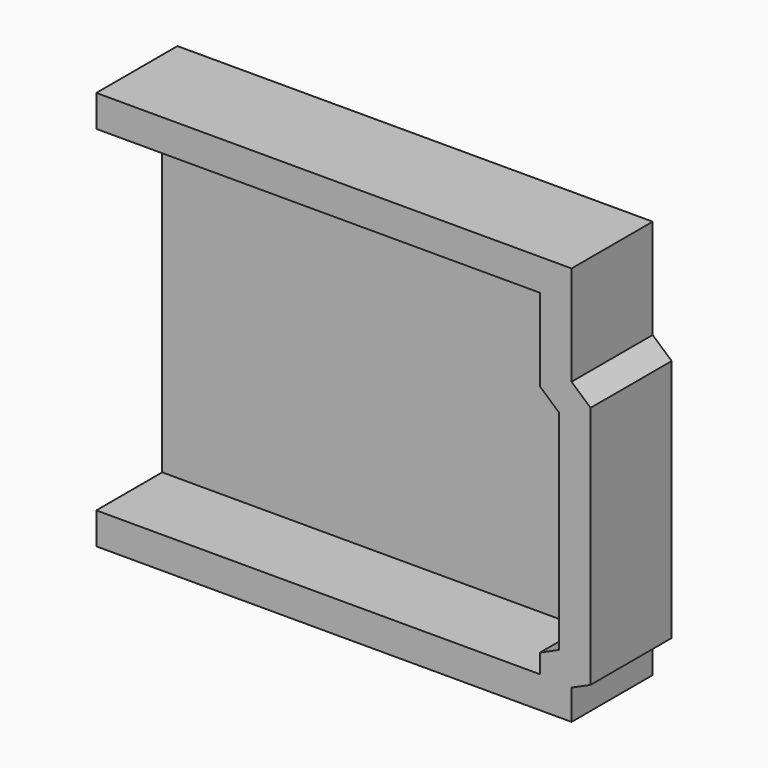
from build123d import *

# Parameters (mm, degrees)
F1_DEPTH = 16
F0_W     = 5
F0_H     = 53
F2_DEPTH = 1.7
F3_DEPTH = 3
F4_DEPTH = 3


with BuildPart() as f1:
    # F0 (on Front) → F1 (new body)
    with BuildSketch(Plane.XZ):
        Polygon((-5, 0), (0, 0), (65, 0), (65, -13), (68, -15.645751), (68, -48.645751), (65, -50), (65, -53), (0, -53), (-5, -53), (-5, -58), (70, -58), (70, -53.228757), (73, -51.874508), (73, -13.38867), (70, -10.742919), (70, 5), (-5, 5), align=None)
    extrude(amount=F1_DEPTH)

    # F0 (on Front) → F2 (join)
    with BuildSketch(Plane.XZ):
        Polygon((-5, 0), (0, 0), (65, 0), (65, -13), (68, -15.645751), (68, -48.645751), (65, -50), (65, -53), (0, -53), (-5, -53), (-5, -58), (70, -58), (70, -53.228757), (73, -51.874508), (73, -13.38867), (70, -10.742919), (70, 5), (-5, 5), align=None)
        with Locations((-2.5, -26.5)):
            Rectangle(F0_W, F0_H)
    extrude(amount=F2_DEPTH)

    # F0 (on Front) → F3 (join)
    with BuildSketch(Plane.XZ):
        Polygon((-5, 0), (0, 0), (65, 0), (65, -13), (68, -15.645751), (68, -48.645751), (65, -50), (65, -53), (0, -53), (-5, -53), (-5, -58), (70, -58), (70, -53.228757), (73, -51.874508), (73, -13.38867), (70, -10.742919), (70, 5), (-5, 5), align=None)
        with Locations((-2.5, -26.5)):
            Rectangle(F0_W, F0_H)
    extrude(amount=F3_DEPTH)

    # F0 (on Front) → F4 (join)
    with BuildSketch(Plane.XZ):
        Polygon((65, 0), (0, 0), (0, -53), (65, -53), (65, -50), (68, -48.645751), (68, -15.645751), (65, -13), align=None)
    extrude(amount=F4_DEPTH)


solid = f1.part
